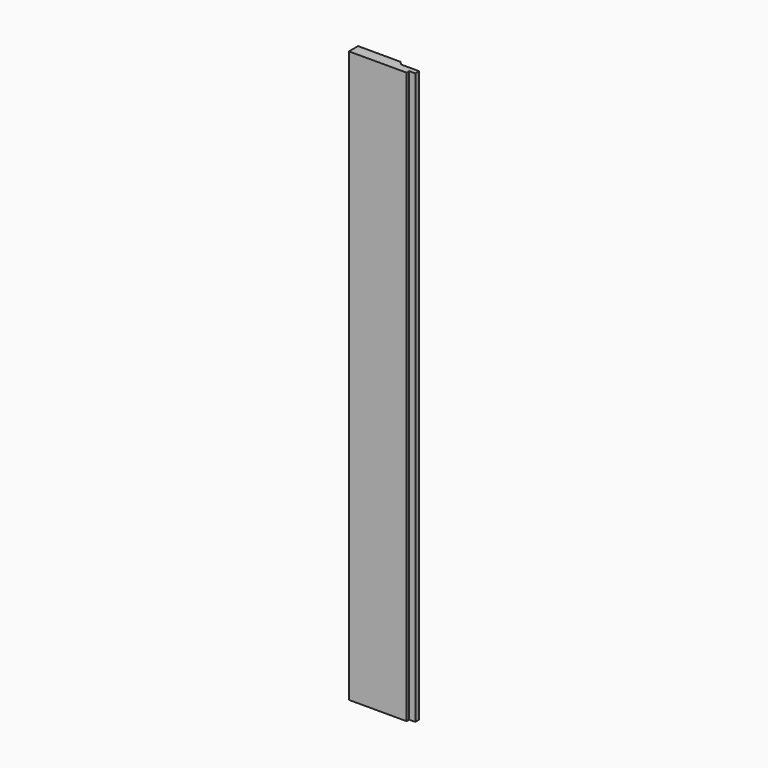
from build123d import *

# Parameters (mm, degrees)
F1_DEPTH = 950
F2_W     = 12
F2_H     = 8
F3_DEPTH = 950.001


with BuildPart() as f1:
    # F0 (on Top) → F1 (new body)
    with BuildSketch(Plane.XY):
        Polygon((0, -4), (0, -9.5), (136, -9.5), (136, -4), (146, -4), (146, 4), (116, 4), (110.5, 9.5), (0, 9.5), (0, 4), (12, 4), (12, -4), align=None)
    extrude(amount=F1_DEPTH)

    # F2 (on face) → F3 (cut, through all)
    with BuildSketch(Plane(origin=(0, 0, 0), x_dir=(1, 0, 0), z_dir=(0, 0, -1))):
        Polygon((0, -9.5), (40, -9.5), (40, 9.5), (0, 9.5), (0, 4), (12, 4), (12, -4), (0, -4), align=None)
        with Locations((6, 0)):
            Rectangle(F2_W, F2_H)
    extrude(amount=-F3_DEPTH, mode=Mode.SUBTRACT)


solid = f1.part
